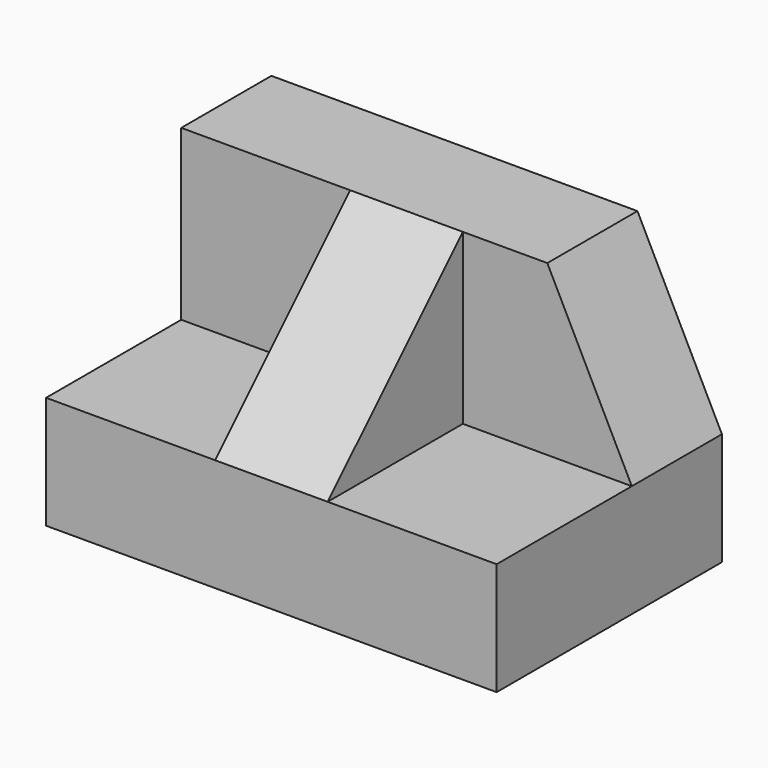
from build123d import *

# Parameters (mm, degrees)
F0_W     = 50.8
F0_H     = 31.75
F1_DEPTH = 31.75
F2_W     = 19.05
F2_H     = 19.05
F3_DEPTH = 19.05
F4_W     = 19.05
F4_H     = 19.05
F5_DEPTH = 19.05
F7_DEPTH = 12.7
F9_DEPTH = 12.7


with BuildPart() as f1:
    # F0 (on Front) → F1 (new body)
    with BuildSketch(Plane.XZ):
        with Locations((25.4, 15.875)):
            Rectangle(F0_W, F0_H)
    extrude(amount=F1_DEPTH)

    # F2 (on face) → F3 (cut)
    with BuildSketch(Plane.YZ.offset(50.8)):
        with Locations((-22.225, 22.225)):
            Rectangle(F2_W, F2_H)
    extrude(amount=-F3_DEPTH, mode=Mode.SUBTRACT)

    # F4 (on face) → F5 (cut)
    with BuildSketch(Plane(origin=(0, 0, 0), x_dir=(0, -1, 0), z_dir=(-1, 0, 0))):
        with Locations((22.225, 22.225)):
            Rectangle(F4_W, F4_H)
    extrude(amount=-F5_DEPTH, mode=Mode.SUBTRACT)

    # F6 (on face) → F7 (cut)
    with BuildSketch(Plane.XZ.offset(12.7)):
        Polygon((50.8, 31.75), (41.275, 31.75), (50.8, 12.7), align=None)
    extrude(amount=-F7_DEPTH, mode=Mode.SUBTRACT)

    # F8 (on face) → F9 (cut)
    with BuildSketch(Plane.YZ.offset(31.75)):
        Polygon((-31.75, 12.7), (-12.7, 31.75), (-31.75, 31.75), align=None)
    extrude(amount=-F9_DEPTH, mode=Mode.SUBTRACT)


solid = f1.part
